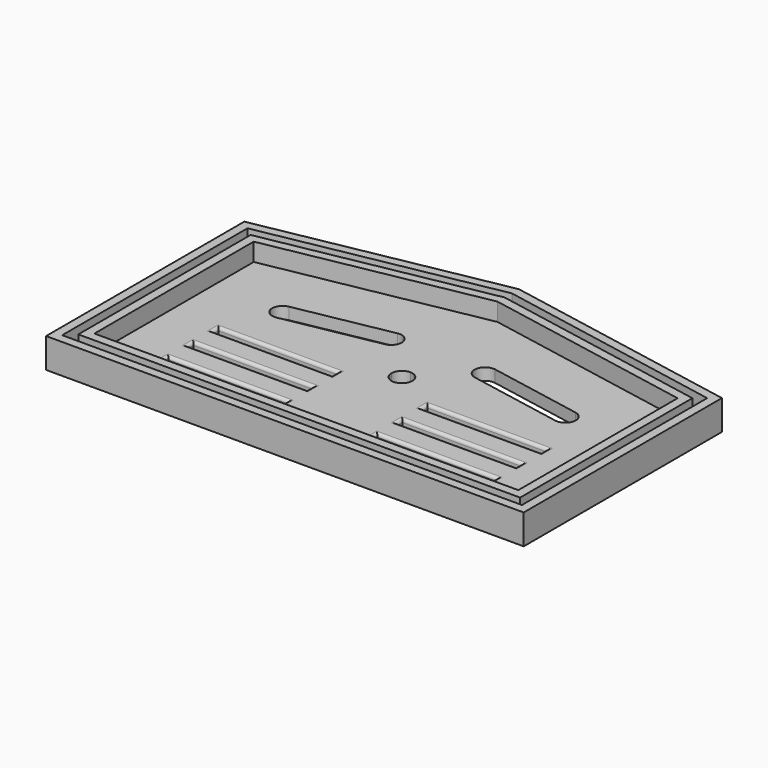
from build123d import *

# Parameters (mm, degrees)
F1_DEPTH = 4
F2_DEPTH = 10
F4_DEPTH = 25
F5_DEPTH = 5
F6_W     = 40
F6_H     = 2.5
F7_DEPTH = 25
F8_R     = 1


with BuildPart() as f1:
    # F0 (on Top) → F1 (new body)
    with BuildSketch(Plane.XY):
        Polygon((71, -40), (71, 26.6875), (0, 40), (-71, 26.6875), (-71, -40), align=None)
        Polygon((77, -46), (77, 25.5625), (74, 26.125), (74, -43), (-74, -43), (-74, 26.125), (-77, 25.5625), (-77, -46), align=None)
        Polygon((0, 43), (71, 29.6875), (71, 32.6875), (0, 46), (-71, 32.6875), (-71, 29.6875), align=None)
        Polygon((-80, -49), (80, -49), (80, 25), (77, 25.5625), (77, -46), (-77, -46), (-77, 25.5625), (-80, 25), align=None)
        Polygon((74, -43), (74, 26.125), (71, 26.6875), (71, -40), (-71, -40), (-71, 26.6875), (-74, 26.125), (-74, -43), align=None)
        Polygon((-80, 31), (-80, 28), (-77, 28.5625), (-77, 31.5625), align=None)
        Polygon((-80, 34), (-80, 31), (-77, 31.5625), (-77, 34.5625), align=None)
        Polygon((-80, 28), (-80, 25), (-77, 25.5625), (-77, 28.5625), align=None)
        Polygon((-77, 34.5625), (-77, 31.5625), (-74, 32.125), (-74, 35.125), align=None)
        Polygon((-77, 31.5625), (-77, 28.5625), (-74, 29.125), (-74, 32.125), align=None)
        Polygon((-77, 28.5625), (-77, 25.5625), (-74, 26.125), (-74, 29.125), align=None)
        Polygon((-74, 32.125), (-74, 29.125), (-71, 29.6875), (-71, 32.6875), align=None)
        Polygon((-74, 29.125), (-74, 26.125), (-71, 26.6875), (-71, 29.6875), align=None)
        Polygon((-74, 35.125), (-74, 32.125), (-71, 32.6875), (-71, 35.6875), align=None)
        Polygon((0, 46), (71, 32.6875), (71, 35.6875), (0, 49), (-71, 35.6875), (-71, 32.6875), align=None)
        Polygon((0, 40), (71, 26.6875), (71, 29.6875), (0, 43), (-71, 29.6875), (-71, 26.6875), align=None)
        Polygon((71, 32.6875), (74, 32.125), (74, 35.125), (71, 35.6875), align=None)
        Polygon((74, 32.125), (77, 31.5625), (77, 34.5625), (74, 35.125), align=None)
        Polygon((77, 31.5625), (80, 31), (80, 34), (77, 34.5625), align=None)
        Polygon((77, 28.5625), (80, 28), (80, 31), (77, 31.5625), align=None)
        Polygon((77, 25.5625), (80, 25), (80, 28), (77, 28.5625), align=None)
        Polygon((74, 26.125), (77, 25.5625), (77, 28.5625), (74, 29.125), align=None)
        Polygon((71, 26.6875), (74, 26.125), (74, 29.125), (71, 29.6875), align=None)
        Polygon((71, 29.6875), (74, 29.125), (74, 32.125), (71, 32.6875), align=None)
        Polygon((74, 29.125), (77, 28.5625), (77, 31.5625), (74, 32.125), align=None)
    extrude(amount=F1_DEPTH)

    # F0 (on Top) → F2 (join)
    with BuildSketch(Plane.XY):
        Polygon((77, 31.5625), (80, 31), (80, 34), (77, 34.5625), align=None)
        Polygon((74, 32.125), (77, 31.5625), (77, 34.5625), (74, 35.125), align=None)
        Polygon((71, 32.6875), (74, 32.125), (74, 35.125), (71, 35.6875), align=None)
        Polygon((0, 46), (71, 32.6875), (71, 35.6875), (0, 49), (-71, 35.6875), (-71, 32.6875), align=None)
        Polygon((-74, 35.125), (-74, 32.125), (-71, 32.6875), (-71, 35.6875), align=None)
        Polygon((-77, 34.5625), (-77, 31.5625), (-74, 32.125), (-74, 35.125), align=None)
        Polygon((-80, 34), (-80, 31), (-77, 31.5625), (-77, 34.5625), align=None)
        Polygon((-80, 28), (-80, 25), (-77, 25.5625), (-77, 28.5625), align=None)
        Polygon((-74, 29.125), (-74, 26.125), (-71, 26.6875), (-71, 29.6875), align=None)
        Polygon((0, 40), (71, 26.6875), (71, 29.6875), (0, 43), (-71, 29.6875), (-71, 26.6875), align=None)
        Polygon((77, 25.5625), (80, 25), (80, 28), (77, 28.5625), align=None)
        Polygon((71, 26.6875), (74, 26.125), (74, 29.125), (71, 29.6875), align=None)
        Polygon((-80, -49), (80, -49), (80, 25), (77, 25.5625), (77, -46), (-77, -46), (-77, 25.5625), (-80, 25), align=None)
        Polygon((74, -43), (74, 26.125), (71, 26.6875), (71, -40), (-71, -40), (-71, 26.6875), (-74, 26.125), (-74, -43), align=None)
        Polygon((-80, 31), (-80, 28), (-77, 28.5625), (-77, 31.5625), align=None)
        Polygon((77, 28.5625), (80, 28), (80, 31), (77, 31.5625), align=None)
    extrude(amount=F2_DEPTH)

    # F3 (on face) → F4 (cut)
    with BuildSketch(Plane.XY.offset(4)):
        with BuildLine():
            Line((-3.5, 0), (0, 0))
            Line((0, 0), (0, 3.5))
            ThreePointArc((0, 3.5), (-2.4748737342, 2.4748737342), (-3.5, 0))
        make_face()
        with BuildLine():
            Line((0, 3.5), (0, 0))
            Line((0, 0), (-3.5, 0))
            ThreePointArc((-3.5, 0), (0, -3.5), (3.5, 0))
            ThreePointArc((3.5, 0), (2.4748737342, 2.4748737342), (0, 3.5))
        make_face()
    extrude(amount=-F4_DEPTH, mode=Mode.SUBTRACT)

    # F3 (on face) → F5 (cut)
    with BuildSketch(Plane.XY.offset(4)):
        with BuildLine():
            ThreePointArc((-48.0253626304, 12.6815713362), (-50.7987183194, 8.6005751391), (-46.7353428851, 5.8014660276))
            Line((-46.7353428851, 5.8014660276), (-48.0253626304, 12.6815713362))
        make_face()
        Polygon((-46.7353428851, 5.8014660276), (-15.0502303624, 11.7424246256), (-16.3402501078, 18.6225299342), (-48.0253626304, 12.6815713362), align=None)
        with BuildLine():
            Line((-16.3402501078, 18.6225299342), (-15.0502303624, 11.7424246256))
            ThreePointArc((-15.0502303624, 11.7424246256), (-12.2805111805, 15.8227389776), (-16.3402501078, 18.6225299342))
        make_face()
        with BuildLine():
            ThreePointArc((16.3402501078, 18.6225299342), (12.2805111805, 15.8227389776), (15.0502303624, 11.7424246256))
            Line((15.0502303624, 11.7424246256), (46.7353428851, 5.8014660276))
            ThreePointArc((46.7353428851, 5.8014660276), (50.7987183194, 8.6005751391), (48.0253626304, 12.6815713362))
            Line((48.0253626304, 12.6815713362), (16.3402501078, 18.6225299342))
        make_face()
    extrude(amount=-F5_DEPTH, mode=Mode.SUBTRACT)

    # F6 (on face) → F7 (cut)
    with BuildSketch(Plane.XY.offset(4)):
        with Locations((-35, -30.25)):
            Rectangle(F6_W, F6_H)
        with Locations((-35, -19.75)):
            Rectangle(F6_W, F6_H)
        with Locations((35, -19.75)):
            Rectangle(F6_W, F6_H)
        with Locations((35, -30.25)):
            Rectangle(F6_W, F6_H)
        with Locations((-35, -9.25)):
            Rectangle(F6_W, F6_H)
        with Locations((35, -9.25)):
            Rectangle(F6_W, F6_H)
    extrude(amount=-F7_DEPTH, mode=Mode.SUBTRACT)

    # F8
    f8_edges = [f1.edges().sort_by_distance(p)[0] for p in [
        (-35, -31.5, 4),
        (-35, -29, 4),
        (-35, -21, 4),
        (-35, -18.5, 4),
        (-35, -10.5, 4),
        (-35, -8, 4),
        (-55, -9.25, 4),
        (-55, -19.75, 4),
        (-55, -30.25, 4),
        (-15, -30.25, 4),
        (-15, -19.75, 4),
        (-15, -9.25, 4),
        (15, -9.25, 4),
        (15, -19.75, 4),
        (15, -30.25, 4),
        (35, -29, 4),
        (35, -31.5, 4),
        (35, -18.5, 4),
        (15, -9.25, 0),
        (15, -19.75, 0),
        (35, -31.5, 0),
        (15, -30.25, 0),
        (35, -29, 0),
        (35, -21, 0),
        (35, -18.5, 0),
        (35, -8, 0),
        (35, -10.5, 0),
        (55, -30.25, 0),
        (55, -19.75, 0),
        (55, -9.25, 0),
        (-15, -30.25, 0),
        (-15, -19.75, 0),
        (-55, -30.25, 0),
        (-55, -19.75, 0),
        (-55, -9.25, 0),
        (-35, -21, 0),
        (-35, -29, 0),
        (-35, -31.5, 0),
        (-35, -10.5, 0),
        (-35, -8, 0),
        (-35, -18.5, 0),
        (-15, -9.25, 0),
        (55, -30.25, 4),
        (55, -19.75, 4),
        (35, -21, 4),
        (35, -10.5, 4),
        (35, -8, 4),
        (55, -9.25, 4),
    ]]
    fillet(f8_edges, radius=F8_R)


solid = f1.part
